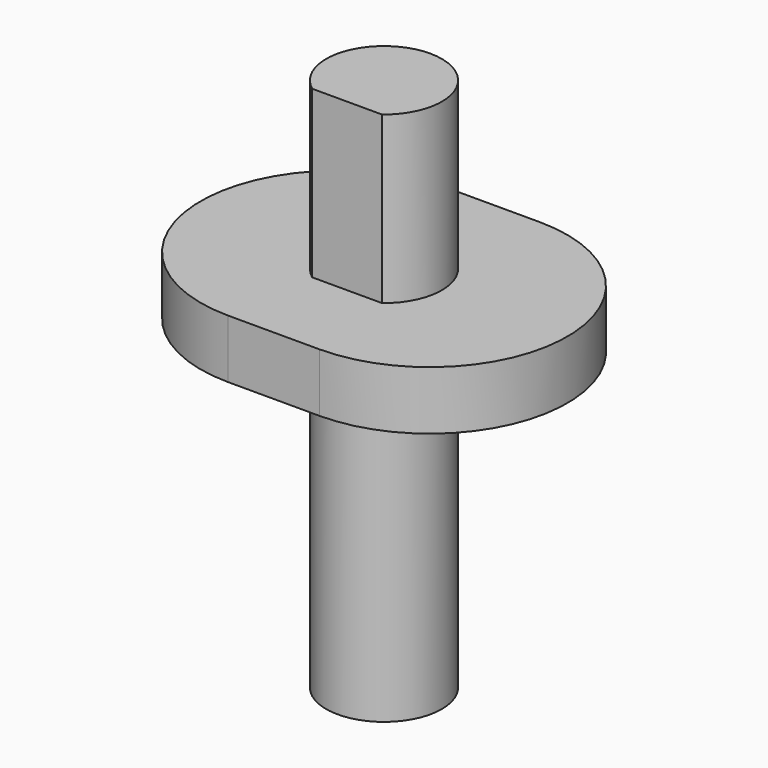
from build123d import *

# Parameters (mm, degrees)
F1_DEPTH = 6.42
F2_R     = 6.345
F3_DEPTH = 34
F4_R     = 6.345
F5_DEPTH = 18.2
F7_DEPTH = 18.2


with BuildPart() as f1:
    # F0 (on Top) → F1 (new body)
    with BuildSketch(Plane.XY):
        with BuildLine():
            Line((5, 15.1), (-5, 15.1))
            ThreePointArc((-5, 15.1), (-20.1, 0), (-5, -15.1))
            Line((-5, -15.1), (5, -15.1))
            ThreePointArc((5, -15.1), (20.1, 0), (5, 15.1))
        make_face()
    extrude(amount=F1_DEPTH)

    # F2 (on face) → F3 (join)
    with BuildSketch(Plane(origin=(0, 0, 0), x_dir=(1, 0, 0), z_dir=(0, 0, -1))):
        Circle(F2_R)
    extrude(amount=F3_DEPTH)

    # F4 (on face) → F5 (join)
    with BuildSketch(Plane.XY.offset(6.42)):
        Circle(F4_R)
    extrude(amount=F5_DEPTH)

    # F6 (on face) → F7 (cut)
    with BuildSketch(Plane.XY.offset(24.62)):
        with BuildLine():
            ThreePointArc((-3.821623, -5.065), (-2.015143, -6.016496), (0, -6.345))
            Line((0, -6.345), (0, -5.065))
            Line((0, -5.065), (-3.821623, -5.065))
        make_face()
        with BuildLine():
            Line((0, -5.065), (0, -6.345))
            ThreePointArc((0, -6.345), (2.015143, -6.016496), (3.821623, -5.065))
            Line((3.821623, -5.065), (0, -5.065))
        make_face()
    extrude(amount=-F7_DEPTH, mode=Mode.SUBTRACT)


solid = f1.part
